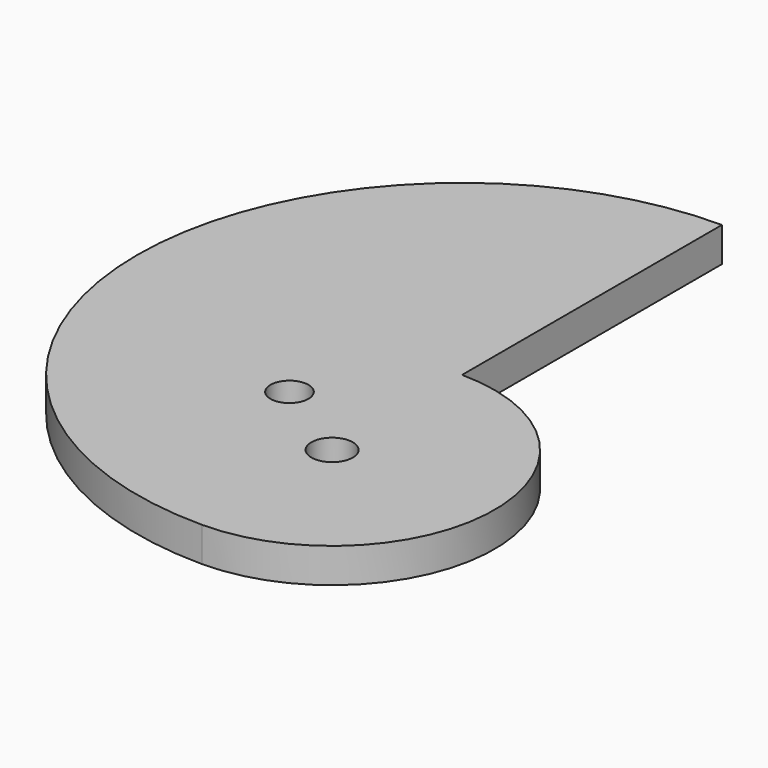
from build123d import *

# Parameters (mm, degrees)
F0_R     = 2.75
F0_R_2   = 3
F1_DEPTH = 5


with BuildPart() as f1:
    # F0 (on Top) → F1 (new body)
    with BuildSketch(Plane.XY):
        with BuildLine():
            Line((0, 0), (0, 47))
            ThreePointArc((0, 47), (-47, 0), (0, -47))
            ThreePointArc((0, -47), (23.5, -23.5), (0, 0))
        make_face()
        with Locations((-12.636168, -15.417472)):
            Circle(F0_R, mode=Mode.SUBTRACT)
        with Locations((0, -23.5)):
            Circle(F0_R_2, mode=Mode.SUBTRACT)
    extrude(amount=F1_DEPTH)


solid = f1.part
